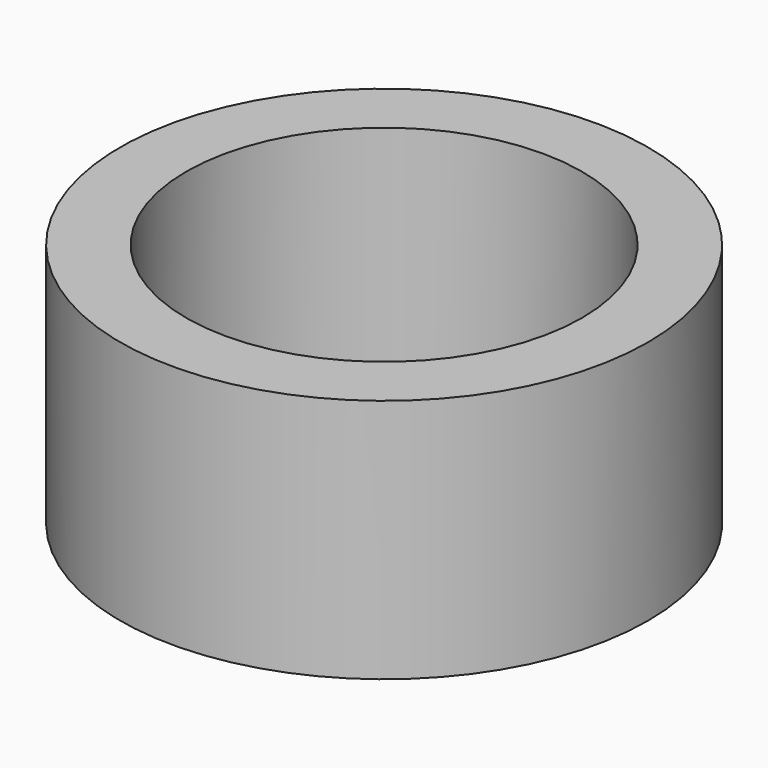
from build123d import *

# Parameters (mm, degrees)
CYLINDER014_R     = 10.5
CYLINDER014_DEPTH = 13
CYLINDER013_R     = 14
CYLINDER013_DEPTH = 13


with BuildPart() as cylinder014:
    # Cylinder014 → Cylinder014 (new body)
    with BuildSketch(Plane.XY.offset(-6)):
        Circle(CYLINDER014_R)
    extrude(amount=CYLINDER014_DEPTH)


with BuildPart() as cut086:
    # Cylinder013 → Cylinder013 (new body)
    with BuildSketch(Plane.XY.offset(-6)):
        Circle(CYLINDER013_R)
    extrude(amount=CYLINDER013_DEPTH)

    # Cut086: cut Cylinder014
    add(cylinder014.part, mode=Mode.SUBTRACT)


solid = cut086.part
